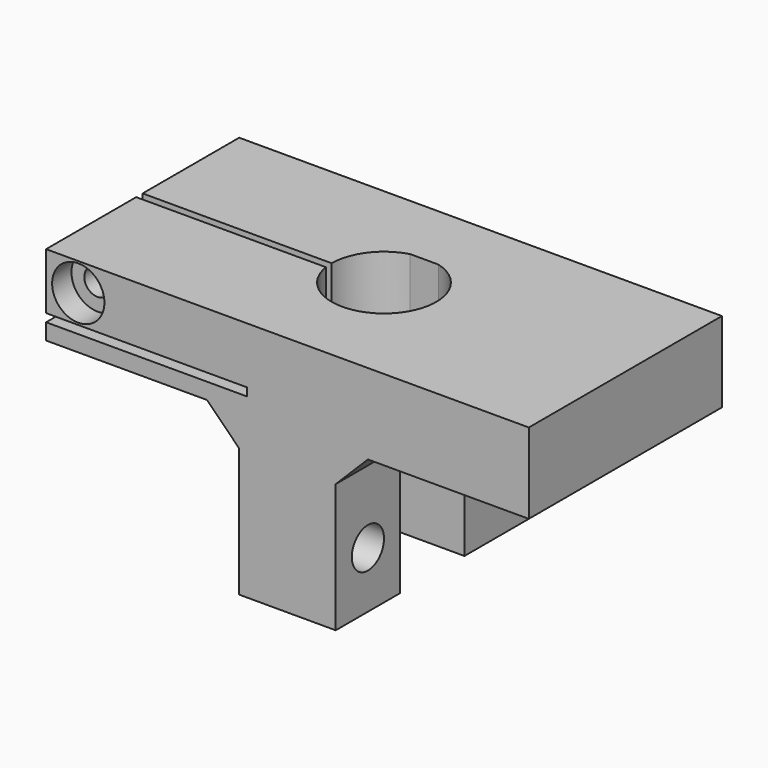
from build123d import *

# Parameters (mm, degrees)
F1_DEPTH        = 15
F3_DEPTH        = 8
F4_R            = 3.25
F5_DEPTH        = 22.001
F6_W            = 10
F6_H            = 20.0000007821
F7_DEPTH        = 60.001
F8_W            = 25
F8_H            = 1
F9_DEPTH        = 15
F10_W           = 1
F10_H           = 6.9999992179
F11_DEPTH       = 25
F13_D           = 3.3
F13_DEPTH       = 15
F13_CBORE_D     = 6.5
F13_CBORE_DEPTH = 3
F13_TIP         = 0.9914200214
F15_D           = 5


with BuildPart() as f1:
    # F0 (on Front) → F1 (new body, symmetric)
    with BuildSketch(Plane.XZ):
        Polygon((-6, 16.0000007821), (-6, 0), (0, 0), (0, 30), (-30, 30), (-30, 20.0000007821), (-10, 20.0000007821), align=None)
        Polygon((0, 30), (0, 0), (6, 0), (6, 16.0000007821), (10, 20.0000007821), (30, 20.0000007821), (30, 30), align=None)
    extrude(amount=F1_DEPTH, both=True)

    # F2 (on face) → F3 (cut)
    with BuildSketch(Plane.XY.offset(30)):
        with BuildLine():
            Line((1.75, 6.2599920128), (-1.75, 6.2599920128))
            ThreePointArc((-1.75, 6.2599920128), (0, -6.5), (1.75, 6.2599920128))
        make_face()
    extrude(amount=-F3_DEPTH, mode=Mode.SUBTRACT)

    # F4 (on face) → F5 (cut, through all)
    with BuildSketch(Plane.XY.offset(22)):
        Circle(F4_R)
    extrude(amount=-F5_DEPTH, mode=Mode.SUBTRACT)

    # F6 (on face) → F7 (cut, through all)
    with BuildSketch(Plane(origin=(-30, 0, 0), x_dir=(0, -1, 0), z_dir=(-1, 0, 0))):
        with Locations((0, 10.0000003911)):
            Rectangle(F6_W, F6_H)
    extrude(amount=-F7_DEPTH, mode=Mode.SUBTRACT)

    # F8 (on face) → F9 (cut)
    with BuildSketch(Plane.XZ.offset(15)):
        with Locations((-17.5, 22.5000007821)):
            Rectangle(F8_W, F8_H)
    extrude(amount=-F9_DEPTH, mode=Mode.SUBTRACT)

    # F10 (on face) → F11 (cut)
    with BuildSketch(Plane(origin=(-30, 0, 0), x_dir=(0, -1, 0), z_dir=(-1, 0, 0))):
        with Locations((0.5, 26.5000003911)):
            Rectangle(F10_W, F10_H)
    extrude(amount=-F11_DEPTH, mode=Mode.SUBTRACT)

    # F13
    with Locations(Plane.XZ.offset(15)):
        with Locations((-26, 26.5)):
            CounterBoreHole(F13_D / 2, F13_CBORE_D / 2, F13_CBORE_DEPTH, depth=F13_DEPTH)
            with Locations((0, 0, -(F13_DEPTH + F13_TIP / 2))):  # 118° drill point
                Cone(0, F13_D / 2, F13_TIP, mode=Mode.SUBTRACT)

    # F15 (through all)
    with Locations(Plane(origin=(-6, 0, 0), x_dir=(0, -1, 0), z_dir=(-1, 0, 0))):
        with Locations((-10, 7), (10, 7)):
            Hole(F15_D / 2)


solid = f1.part
